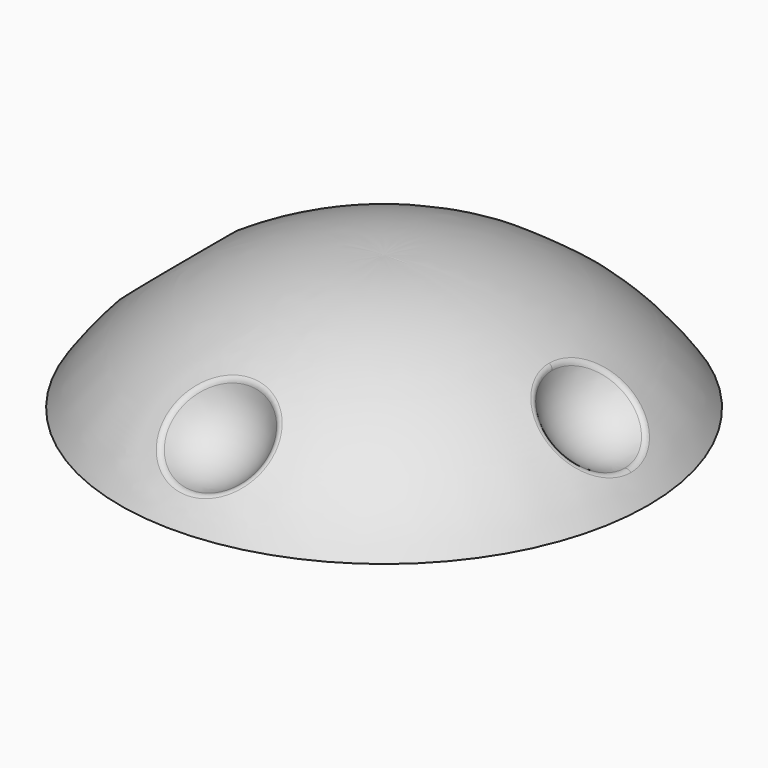
from build123d import *

# Parameters (mm, degrees)
FILLET_R = 0.5


with BuildPart() as sphere002:
    # Sphere002 → Sphere002 (revolve)
    with BuildSketch(Plane(origin=(0, 19, 7), x_dir=(1, 0, 0), z_dir=(0, -1, 0))):
        with BuildLine():
            ThreePointArc((0, -5), (5, 0), (0, 5))
            Line((0, 5), (0, -5))
        make_face()
    revolve(axis=Axis((0, 19, 7), (0, 0, 1)))


with BuildPart() as sphere003:
    # Sphere003 → Sphere003 (revolve)
    with BuildSketch(Plane(origin=(0, -19, 7), x_dir=(1, 0, 0), z_dir=(0, -1, 0))):
        with BuildLine():
            ThreePointArc((0, -5), (5, 0), (0, 5))
            Line((0, 5), (0, -5))
        make_face()
    revolve(axis=Axis((0, -19, 7), (0, 0, 1)))


with BuildPart() as sphere001:
    # Sphere001 → Sphere001 (revolve)
    with BuildSketch(Plane(origin=(19, 0, 7), x_dir=(1, 0, 0), z_dir=(0, -1, 0))):
        with BuildLine():
            ThreePointArc((0, -5), (5, 0), (0, 5))
            Line((0, 5), (0, -5))
        make_face()
    revolve(axis=Axis((19, 0, 7), (0, 0, 1)))


with BuildPart() as fusion:
    # Sphere → Sphere (revolve)
    with BuildSketch(Plane(origin=(-19, 0, 7), x_dir=(1, 0, 0), z_dir=(0, -1, 0))):
        with BuildLine():
            ThreePointArc((0, -5), (5, 0), (0, 5))
            Line((0, 5), (0, -5))
        make_face()
    revolve(axis=Axis((-19, 0, 7), (0, 0, 1)))

    # Fusion: union Sphere002, Sphere003, Sphere001
    add(sphere002.part)
    add(sphere003.part)
    add(sphere001.part)


with BuildPart() as fillet_body:
    # Sketch → Revolution (revolve)
    with BuildSketch(Plane.XZ):
        with BuildLine():
            Line((5.65, 0), (5.65, 0.94163))
            ThreePointArc((5.65, 0.94163), (5.290178, 2.310214), (4.20182, 3.214631))
            Line((4.20182, 3.214631), (4.20182, 8))
            Line((5, 8), (4.20182, 8))
            Line((5, 4), (5, 8))
            Line((7, 2), (5, 4))
            Line((7, 2), (7, 3))
            Line((7, 3), (6, 4))
            Line((6, 4), (6, 9))
            Line((6, 9), (4.15, 9))
            Line((4.15, 9), (0, 9))
            Line((0, 9), (0, 11.218692))
            ThreePointArc((22, 0), (12.465815, 8.483829), (0, 11.218692))
            Line((20.782711, 0), (22, 0))
            Line((7.48849, 0), (20.782711, 0))
            Line((5.65, 0), (7.48849, 0))
        make_face()
    revolve(axis=Axis((0, 0, 0), (0, 0, 1)))

    # Cut: cut Fusion
    add(fusion.part, mode=Mode.SUBTRACT)

    # Fillet
    fillet_edges = [fillet_body.edges().sort_by_distance(p)[0] for p in [
        (17.211149, -4.177188, 4.914067),
        (17.211149, 4.177188, 4.914067),
        (-3.679725, -15.711732, 6.195688),
        (3.678806, -18.70535, 3.626639),
        (-18.978074, 3.460145, 3.390718),
        (-15.436956, -3.461056, 6.429207),
        (0.456133, 14.056472, 7.594539),
        (-0.45613, 20.343685, 2.205581),
    ]]
    fillet(fillet_edges, radius=FILLET_R)


solid = fillet_body.part
